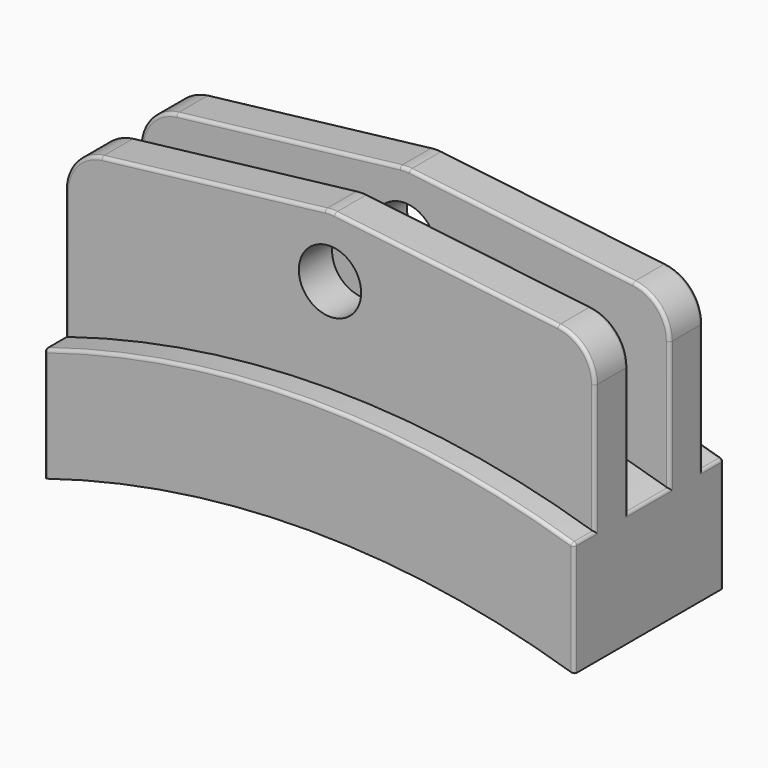
from build123d import *

# Parameters (mm, degrees)
F1_DEPTH = 28.575
F0_R     = 9.525
F2_DEPTH = 20.6375
F3_DEPTH = 7.9375
F7_R     = 1.016


with BuildPart() as f1:
    # F0 (on Front) → F1 (new body, symmetric)
    with BuildSketch(Plane.XZ):
        with BuildLine():
            ThreePointArc((-80.9625, 0), (0, 12.4151634214), (80.9625, 0))
            Line((80.9625, 0), (80.9625, 34.925))
            ThreePointArc((80.9625, 34.925), (0, 47.3401634214), (-80.9625, 34.925))
            Line((-80.9625, 34.925), (-80.9625, 0))
        make_face()
    extrude(amount=F1_DEPTH, both=True)

    # F0 (on Front) → F2 (join, symmetric)
    with BuildSketch(Plane.XZ):
        with BuildLine():
            ThreePointArc((-80.9625, 34.925), (0, 47.3401634214), (80.9625, 34.925))
            Line((80.9625, 34.925), (80.9625, 74.4315304023))
            ThreePointArc((80.9625, 74.4315304023), (77.7528984326, 82.8708631715), (69.7463838441, 87.0445430772))
            Line((69.7463838441, 87.0445430772), (1.4838838441, 95.0754254301))
            ThreePointArc((1.4838838441, 95.0754254301), (0, 95.1624127552), (-1.4838838441, 95.0754254301))
            Line((-1.4838838441, 95.0754254301), (-69.7463838441, 87.0445430772))
            ThreePointArc((-69.7463838441, 87.0445430772), (-77.7528984326, 82.8708631715), (-80.9625, 74.4315304023))
            Line((-80.9625, 74.4315304023), (-80.9625, 34.925))
        make_face()
        with Locations((0, 76.2)):
            Circle(F0_R, mode=Mode.SUBTRACT)
    extrude(amount=F2_DEPTH, both=True)

    # F0 (on Front) → F3 (cut, symmetric)
    with BuildSketch(Plane.XZ):
        with BuildLine():
            ThreePointArc((-80.9625, 34.925), (0, 47.3401634214), (80.9625, 34.925))
            Line((80.9625, 34.925), (80.9625, 74.4315304023))
            ThreePointArc((80.9625, 74.4315304023), (77.7528984326, 82.8708631715), (69.7463838441, 87.0445430772))
            Line((69.7463838441, 87.0445430772), (1.4838838441, 95.0754254301))
            ThreePointArc((1.4838838441, 95.0754254301), (0, 95.1624127552), (-1.4838838441, 95.0754254301))
            Line((-1.4838838441, 95.0754254301), (-69.7463838441, 87.0445430772))
            ThreePointArc((-69.7463838441, 87.0445430772), (-77.7528984326, 82.8708631715), (-80.9625, 74.4315304023))
            Line((-80.9625, 74.4315304023), (-80.9625, 34.925))
        make_face()
        with Locations((0, 76.2)):
            Circle(F0_R, mode=Mode.SUBTRACT)
    extrude(amount=F3_DEPTH, both=True, mode=Mode.SUBTRACT)

    # F7
    f7_edges = [f1.edges().sort_by_distance(p)[0] for p in [
        (80.9625, 24.60625, 34.925),
        (80.9625, -24.60625, 34.925),
        (-80.9625, 24.60625, 34.925),
        (-80.9625, -24.60625, 34.925),
        (-80.9625, 0, 34.925),
        (80.9625, 0, 34.925),
        (80.9625, 28.575, 17.4625),
        (80.9625, -28.575, 17.4625),
        (-80.9625, 28.575, 17.4625),
        (-80.9625, -28.575, 17.4625),
        (0, -28.575, 47.340163),
        (0, 28.575, 47.340163),
        (-80.9625, -20.6375, 54.678265),
        (-80.9625, -7.9375, 54.678265),
        (80.9625, 20.6375, 54.678265),
        (80.9625, 7.9375, 54.678265),
    ]]
    fillet(f7_edges, radius=F7_R)


solid = f1.part
